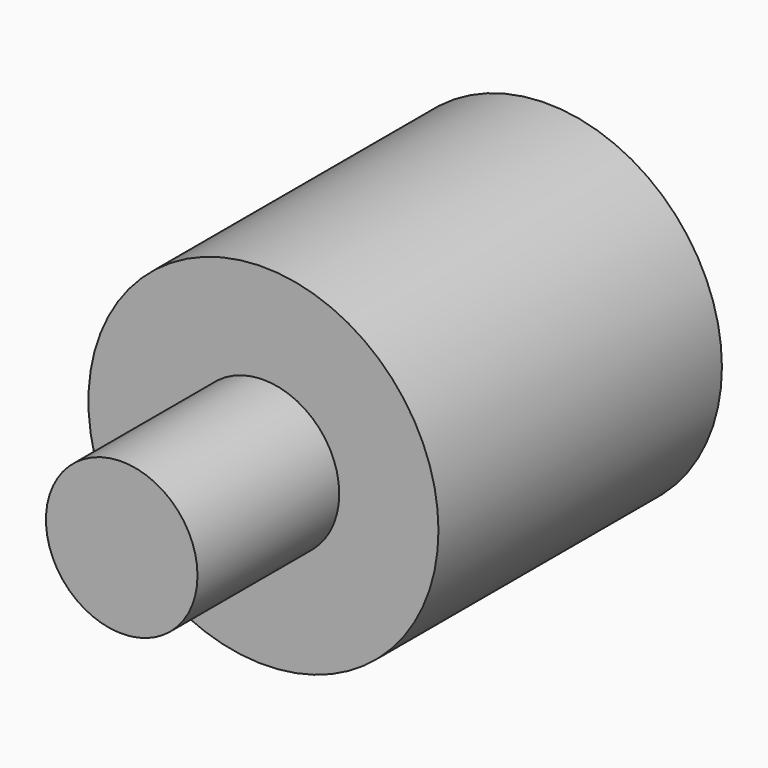
from build123d import *

# Parameters (mm, degrees)
F2_R     = 32.595937
F3_DEPTH = 76.2
F0_R     = 75.281314
F4_DEPTH = 152.4


with BuildPart() as f3:
    # F2 (on face) → F3 (new body)
    with BuildSketch(Plane.XZ):
        Circle(F2_R)
    extrude(amount=F3_DEPTH)

    # F0 (on Front) → F4 (join)
    with BuildSketch(Plane.XZ):
        Circle(F0_R)
    extrude(amount=-F4_DEPTH)


solid = f3.part
